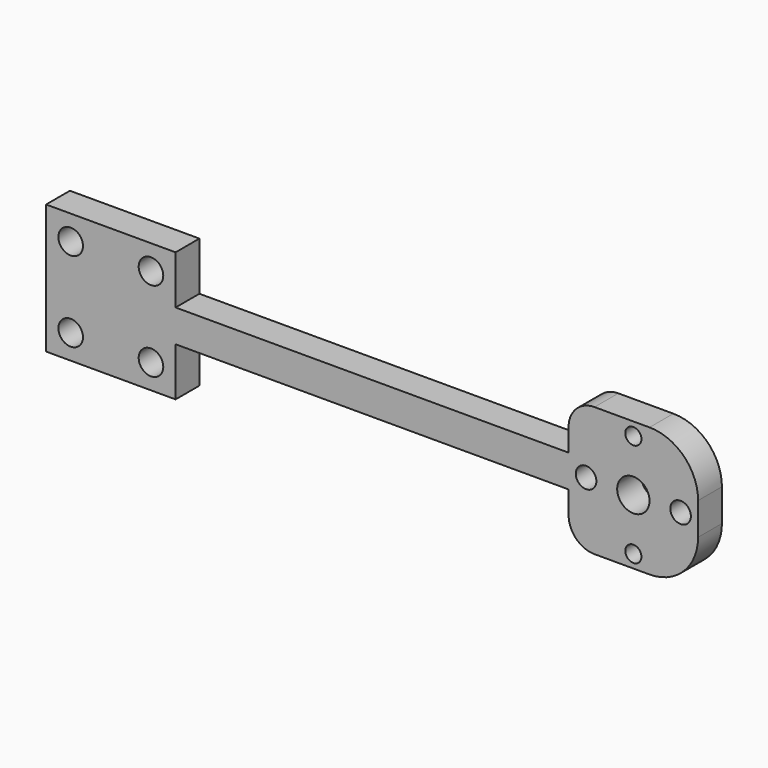
from build123d import *

# Parameters (mm, degrees)
F0_R     = 1.5875
F0_R_2   = 2.0193
F0_R_3   = 3.175
F0_W     = 77.089
F0_H     = 6.35
F0_R_4   = 2.413
F1_DEPTH = 5.842
F2_R     = 9.525
F3_R     = 5.08


with BuildPart() as f1:
    # F0 (on Front) → F1 (new body)
    with BuildSketch(Plane.XZ):
        Polygon((12.7, 12.7), (-12.7, 12.7), (-12.7, 3.175), (-12.7, -3.175), (-12.7, -12.7), (12.7, -12.7), align=None)
        with Locations((0, -10.16)):
            Circle(F0_R, mode=Mode.SUBTRACT)
        with Locations((-9.271, 0)):
            Circle(F0_R_2, mode=Mode.SUBTRACT)
        Circle(F0_R_3, mode=Mode.SUBTRACT)
        with Locations((9.271, 0)):
            Circle(F0_R_2, mode=Mode.SUBTRACT)
        with Locations((0, 10.16)):
            Circle(F0_R, mode=Mode.SUBTRACT)
        with Locations((-51.2445, 0)):
            Rectangle(F0_W, F0_H)
        Polygon((-89.789, -3.175), (-89.789, 3.175), (-89.789, 12.7), (-115.189, 12.7), (-115.189, -12.7), (-89.789, -12.7), align=None)
        with Locations((-110.363, -7.874)):
            Circle(F0_R_4, mode=Mode.SUBTRACT)
        with Locations((-94.615, -7.874)):
            Circle(F0_R_4, mode=Mode.SUBTRACT)
        with Locations((-110.363, 7.874)):
            Circle(F0_R_4, mode=Mode.SUBTRACT)
        with Locations((-94.615, 7.874)):
            Circle(F0_R_4, mode=Mode.SUBTRACT)
    extrude(amount=F1_DEPTH)

    # F2
    f2_edges = [f1.edges().sort_by_distance(p)[0] for p in [
        (12.7, -2.921, 12.7),
        (12.7, -2.921, -12.7),
    ]]
    fillet(f2_edges, radius=F2_R)

    # F3
    f3_edges = [f1.edges().sort_by_distance(p)[0] for p in [
        (-12.7, -2.921, -12.7),
        (-12.7, -2.921, 12.7),
    ]]
    fillet(f3_edges, radius=F3_R)


solid = f1.part
